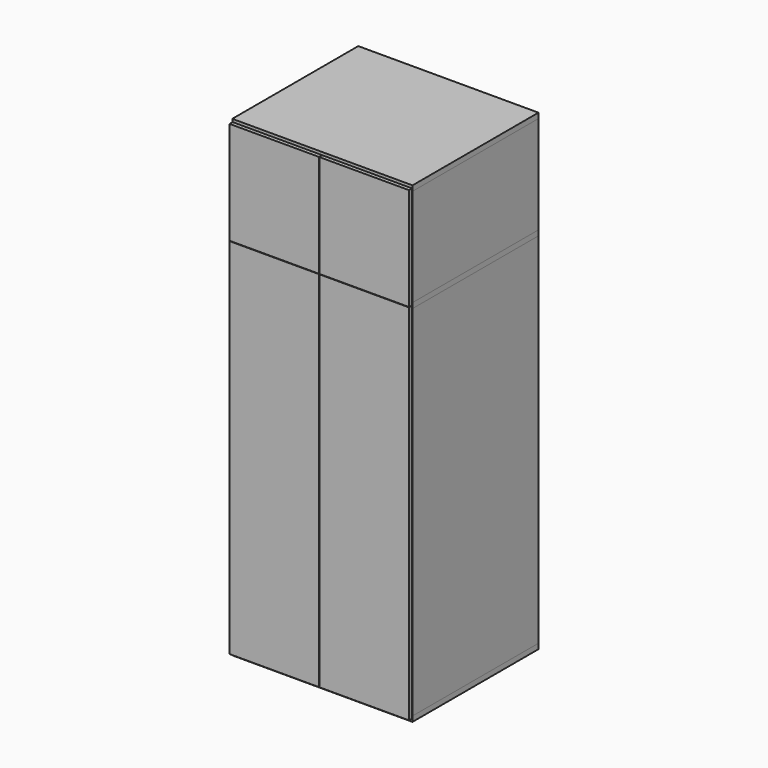
from build123d import *

# Parameters (mm, degrees)
F1_W      = 1030
F1_H      = 30
F2_DEPTH  = 900
F3_W      = 19
F3_H      = 560
F3_H_2    = 2050
F4_DEPTH  = 900
F5_W      = 992
F5_H      = 560
F5_H_2    = 2050
F6_DEPTH  = 19
F7_W      = 992
F7_H      = 30
F8_DEPTH  = 350
F9_W      = 992
F9_H      = 30
F10_DEPTH = 520
F11_W     = 512.5
F11_H     = 2078
F11_H_2   = 588
F12_DEPTH = 22


with BuildPart() as f2:
    # F1 (on Front) → F2 (new body)
    with BuildSketch(Plane.XZ):
        with Locations((0, -1335)):
            Rectangle(F1_W, F1_H)
        with Locations((0, 745)):
            Rectangle(F1_W, F1_H)
        with Locations((0, 1335)):
            Rectangle(F1_W, F1_H)
    extrude(amount=F2_DEPTH)


with BuildPart() as f4:
    # F3 (on Front) → F4 (new body, through all)
    with BuildSketch(Plane.XZ):
        with Locations((-505.5, 1040)):
            Rectangle(F3_W, F3_H)
        with Locations((-505.5, -295)):
            Rectangle(F3_W, F3_H_2)
        with Locations((505.5, -295)):
            Rectangle(F3_W, F3_H_2)
        with Locations((505.5, 1040)):
            Rectangle(F3_W, F3_H)
    extrude(amount=F4_DEPTH)


with BuildPart() as f6:
    # F5 (on Front) → F6 (new body)
    with BuildSketch(Plane.XZ):
        with Locations((0, 1040)):
            Rectangle(F5_W, F5_H)
        with Locations((0, -295)):
            Rectangle(F5_W, F5_H_2)
    extrude(amount=F6_DEPTH)


with BuildPart() as f8:
    # F7 (on face) → F8 (new body)
    with BuildSketch(Plane.XZ.offset(19)):
        with Locations((0, -925)):
            Rectangle(F7_W, F7_H)
        with Locations((0, -515)):
            Rectangle(F7_W, F7_H)
        with Locations((0, -105)):
            Rectangle(F7_W, F7_H)
        with Locations((0, 305)):
            Rectangle(F7_W, F7_H)
    extrude(amount=F8_DEPTH)


with BuildPart() as f10:
    # F9 (on face) → F10 (new body)
    with BuildSketch(Plane.XZ.offset(369)):
        with Locations((0, 395)):
            Rectangle(F9_W, F9_H)
    extrude(amount=F10_DEPTH)


with BuildPart() as f12:
    # F11 (on face) → F12 (new body)
    with BuildSketch(Plane.XZ.offset(900)):
        with Locations((-256.75, -295)):
            Rectangle(F11_W, F11_H)
        with Locations((-256.75, 1040)):
            Rectangle(F11_W, F11_H_2)
        with Locations((256.75, -295)):
            Rectangle(F11_W, F11_H)
        with Locations((256.75, 1040)):
            Rectangle(F11_W, F11_H_2)
    extrude(amount=F12_DEPTH)


solid = Compound([f2.part, f4.part, f6.part, f8.part, f10.part, f12.part])
